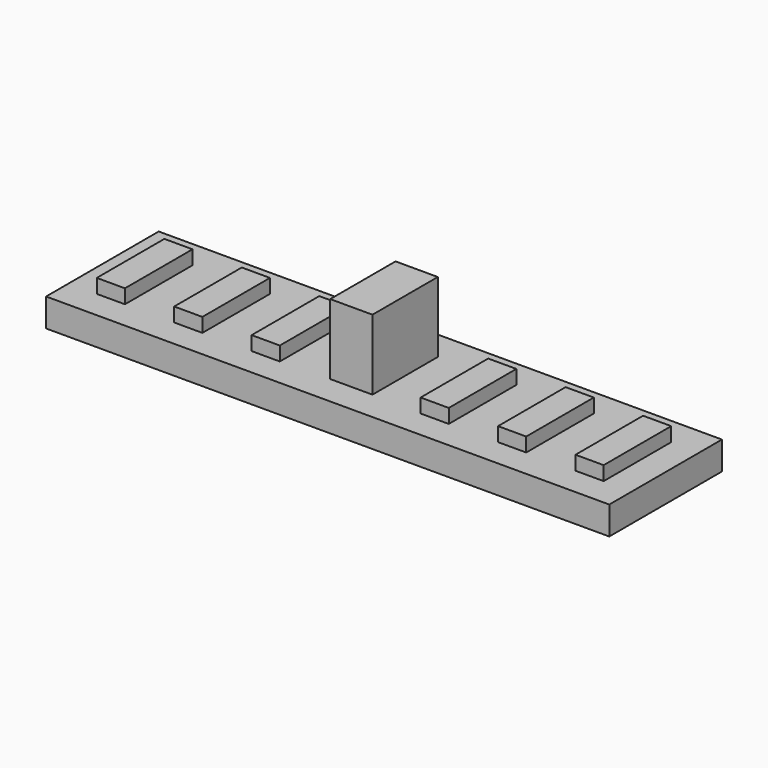
from build123d import *

# Parameters (mm, degrees)
SKETCH_W     = 40
SKETCH_H     = 10
PAD_DEPTH    = 2
PAD001_DEPTH = 5
SKETCH002_W  = 2
SKETCH002_H  = 6
PAD002_DEPTH = 1


with BuildPart() as part:
    # Sketch → Pad (new body)
    with BuildSketch(Plane.XY):
        with Locations((20, 5)):
            Rectangle(SKETCH_W, SKETCH_H)
    extrude(amount=PAD_DEPTH)

    # Sketch001 → Pad001 (new body)
    with BuildSketch(Plane.XY.offset(2)):
        Polygon((18.5, 2.1), (18.5, 5), (18.5, 7.9), (21.5, 7.9), (21.5, 2.1), (20, 2.1), align=None)
    extrude(amount=PAD001_DEPTH)

    # Sketch002 → Pad002 (new body)
    with BuildSketch(Plane.XY.offset(2)):
        with Locations((3, 5)):
            Rectangle(SKETCH002_W, SKETCH002_H)
        with Locations((8.5, 5)):
            Rectangle(SKETCH002_W, SKETCH002_H)
        with Locations((14, 5)):
            Rectangle(SKETCH002_W, SKETCH002_H)
        with Locations((26, 5)):
            Rectangle(SKETCH002_W, SKETCH002_H)
        with Locations((31.5, 5)):
            Rectangle(SKETCH002_W, SKETCH002_H)
        with Locations((37, 5)):
            Rectangle(SKETCH002_W, SKETCH002_H)
    extrude(amount=PAD002_DEPTH)


solid = part.part
